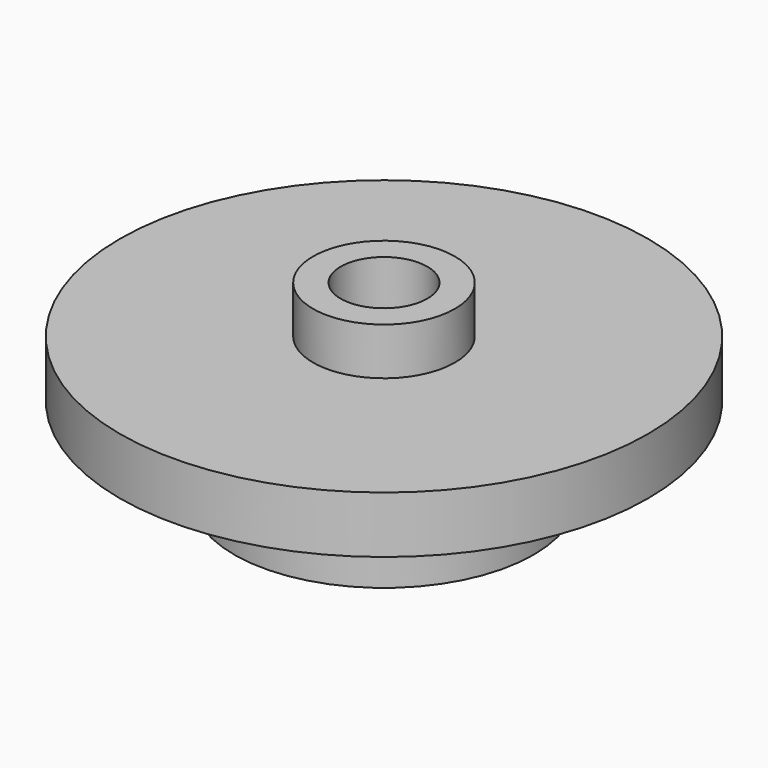
from build123d import *

# Parameters (mm, degrees)
SKETCH_R     = 16.75
PAD_DEPTH    = 3.6
SKETCH003_R  = 9.5
PAD002_DEPTH = 5.5
SKETCH001_R  = 4.5
PAD001_DEPTH = 3
SKETCH002_R  = 2.75
POCKET_DEPTH = 12.101


with BuildPart() as part:
    # Sketch → Pad (new body)
    with BuildSketch(Plane.XY):
        Circle(SKETCH_R)
    extrude(amount=PAD_DEPTH)

    # Sketch003 (on Face2 of Pocket) → Pad002 (join)
    with BuildSketch(Plane(origin=(0, 0, 0), x_dir=(1, 0, 0), z_dir=(0, 0, -1))):
        Circle(SKETCH003_R)
    extrude(amount=PAD002_DEPTH)

    # Sketch001 (on Face3 of Pad) → Pad001 (join)
    with BuildSketch(Plane.XY.offset(3.6)):
        Circle(SKETCH001_R)
    extrude(amount=PAD001_DEPTH)

    # Sketch002 (on Face5 of Pad001) → Pocket (cut, through all)
    with BuildSketch(Plane.XY.offset(6.6)):
        Circle(SKETCH002_R)
    extrude(amount=-POCKET_DEPTH, mode=Mode.SUBTRACT)


solid = part.part
